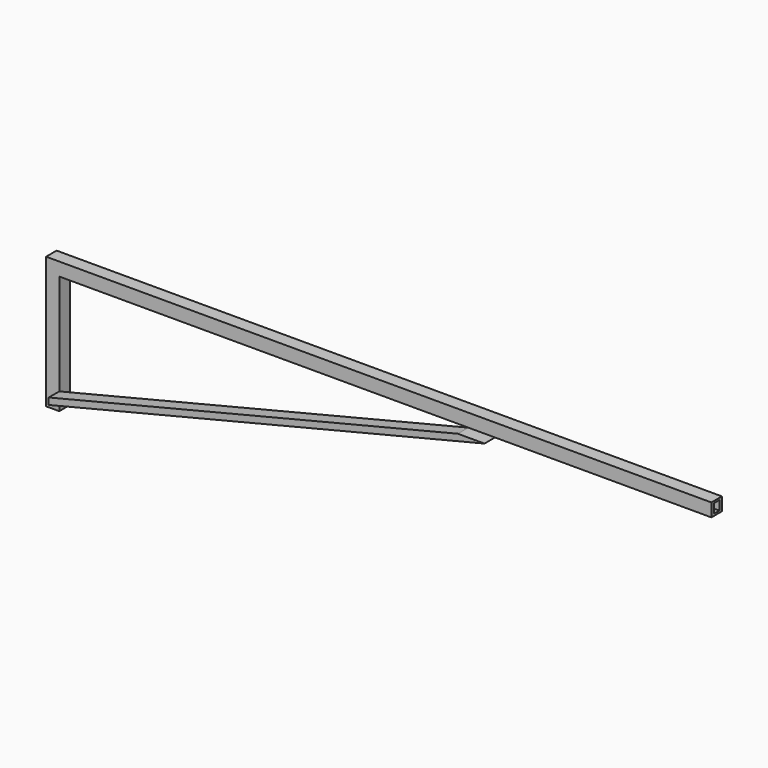
from build123d import *

# Parameters (mm, degrees)
F0_W     = 495
F0_H     = 10
F1_DEPTH = 10
F2_W     = 2.5
F2_H     = 7
F3_DEPTH = 495
F5_DEPTH = 10


with BuildPart() as f1:
    # F0 (on Front) → F1 (new body)
    with BuildSketch(Plane.XZ):
        Polygon((-79.814313, -10), (-79.814313, 0), (-89.814313, 0), (-89.814313, -100), (-79.814313, -100), align=None)
        with Locations((167.685687, -5)):
            Rectangle(F0_W, F0_H)
    extrude(amount=F1_DEPTH)

    # F2 (on face) → F3 (cut)
    with BuildSketch(Plane.YZ.offset(415.185687)):
        with Locations((-6.25, -5)):
            Rectangle(F2_W, F2_H)
        with Locations((-3.75, -5)):
            Rectangle(F2_W, F2_H)
    extrude(amount=-F3_DEPTH, mode=Mode.SUBTRACT)


with BuildPart() as f5:
    # F4 (on face) → F5 (new body)
    with BuildSketch(Plane.XZ.offset(10)):
        Polygon((230.740586, -10), (-79.814313, -86.768635), (-79.814313, -91.768635), (250.967264, -10), align=None)
    extrude(amount=F5_DEPTH)


solid = Compound([f1.part, f5.part])
